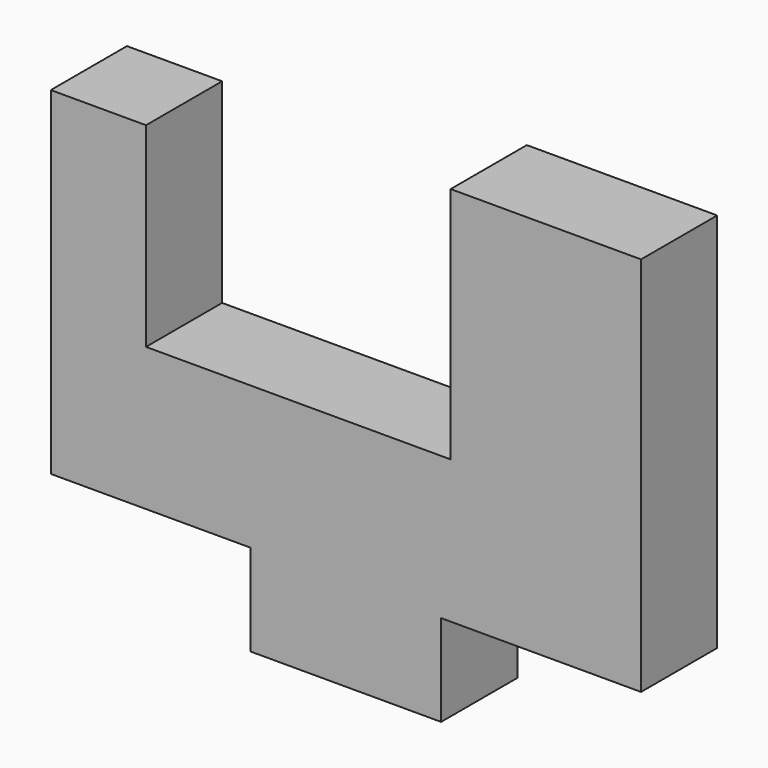
from build123d import *

# Parameters (mm, degrees)
F0_W     = 12.7
F0_H     = 6.096
F1_DEPTH = 6.35


with BuildPart() as f1:
    # F0 (on Front) → F1 (new body)
    with BuildSketch(Plane.XZ):
        Polygon((12.7, 25.4), (0, 25.4), (0, 9.525), (-20.32, 9.525), (-20.32, 22.54056), (-26.67, 22.54056), (-26.67, 0), (-13.335, 0), (-0.635, 0), (0, 0), (12.7, 0), align=None)
        with Locations((-6.985, -3.048)):
            Rectangle(F0_W, F0_H)
    extrude(amount=F1_DEPTH)


solid = f1.part
